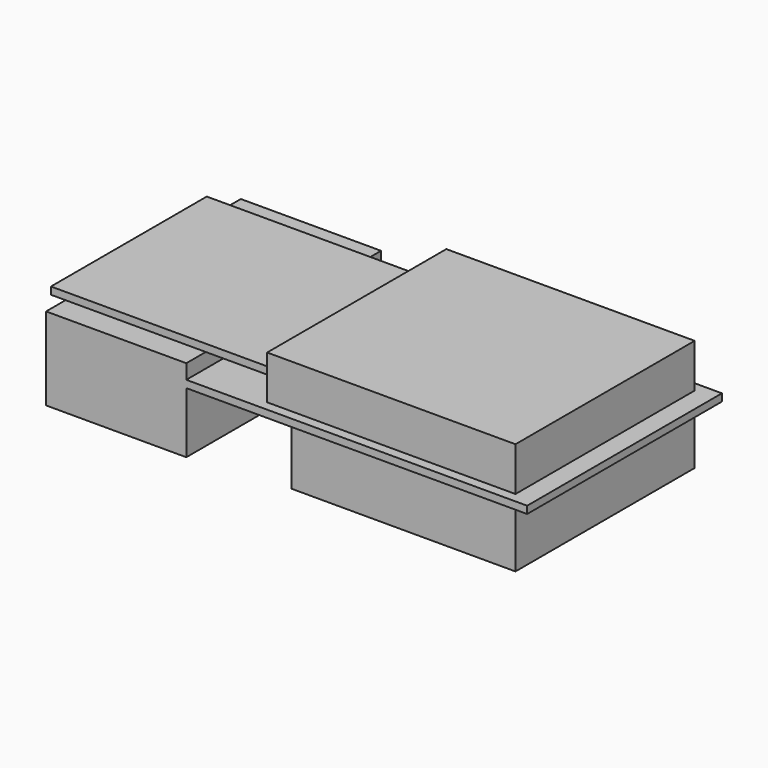
from build123d import *

# Parameters (mm, degrees)
F0_W      = 70
F0_H      = 50
F1_DEPTH  = 1.5
F2_W      = 46
F2_H      = 46
F3_DEPTH  = 12.5
F2_W_2    = 5
F2_H_2    = 10
F4_DEPTH  = 10
F5_W      = 51
F5_H      = 46
F6_DEPTH  = 9
F7_W      = 50
F7_H      = 3
F7_H_2    = 1.5
F7_H_3    = 12.5
F8_DEPTH  = 31.8
F9_W      = 31.8
F9_H      = 40
F9_W_2    = 15
F10_DEPTH = 1.5
F12_DEPTH = 3


with BuildPart() as f1:
    # F0 (on Top) → F1 (new body)
    with BuildSketch(Plane.XY):
        with Locations((35, 25)):
            Rectangle(F0_W, F0_H)
    extrude(amount=F1_DEPTH)

    # F2 (on face) → F3 (join)
    with BuildSketch(Plane(origin=(0, 0, 0), x_dir=(1, 0, 0), z_dir=(0, 0, -1))):
        with Locations((43, -25)):
            Rectangle(F2_W, F2_H)
    extrude(amount=F3_DEPTH)

    # F2 (on face) → F4 (join)
    with BuildSketch(Plane(origin=(0, 0, 0), x_dir=(1, 0, 0), z_dir=(0, 0, -1))):
        with Locations((5.7, -25)):
            Rectangle(F2_W_2, F2_H_2)
    extrude(amount=F4_DEPTH)

    # F5 (on face) → F6 (join)
    with BuildSketch(Plane.XY.offset(1.5)):
        with Locations((40.5, 25)):
            Rectangle(F5_W, F5_H)
    extrude(amount=F6_DEPTH)

    # F7 (on face) → F8 (join)
    with BuildSketch(Plane(origin=(0, 0, 0), x_dir=(0, -1, 0), z_dir=(-1, 0, 0))):
        with Locations((-25, 3)):
            Rectangle(F7_W, F7_H)
        with Locations((-25, 0.75)):
            Rectangle(F7_W, F7_H_2)
        with Locations((-25, -6.25)):
            Rectangle(F7_W, F7_H_3)
    extrude(amount=F8_DEPTH)

    # F9 (on face) → F10 (join)
    with BuildSketch(Plane.XY.offset(4.5)):
        with Locations((-15.9, 25)):
            Rectangle(F9_W, F9_H)
        with Locations((7.5, 25)):
            Rectangle(F9_W_2, F9_H)
    extrude(amount=F10_DEPTH)

    # F11 (on face) → F12 (cut)
    with BuildSketch(Plane(origin=(-31.8, 0, 0), x_dir=(0, -1, 0), z_dir=(-1, 0, 0))):
        Polygon((-5, 4.5), (-45, 4.5), (-50, 4.5), (-50, -12.5), (0, -12.5), (0, 4.5), align=None)
    extrude(amount=-F12_DEPTH, mode=Mode.SUBTRACT)


solid = f1.part
